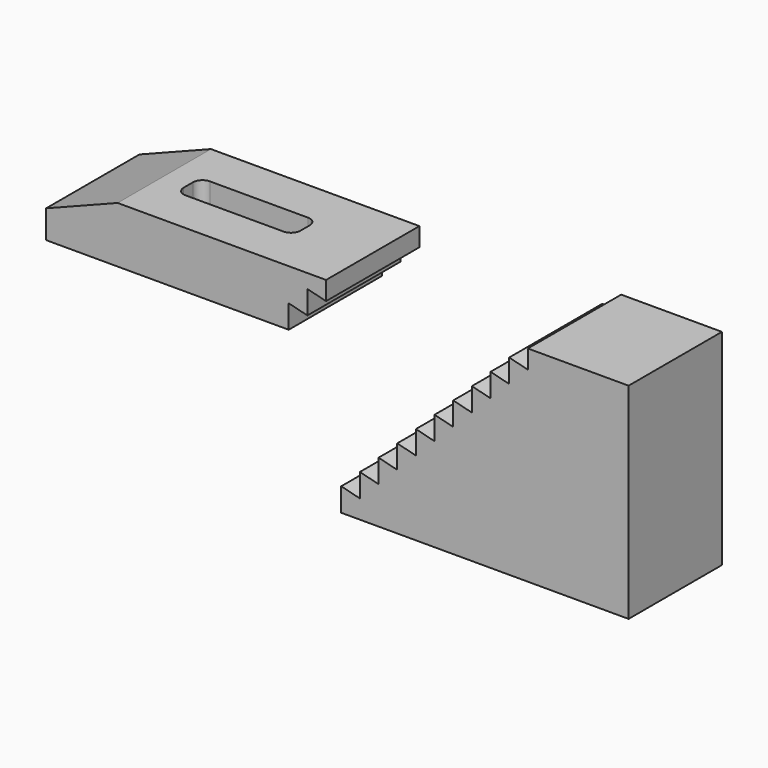
from build123d import *

# Parameters (mm, degrees)
F1_DEPTH = 25
F3_DEPTH = 25


with BuildPart() as f1:
    # F0 (on Front) → F1 (new body)
    with BuildSketch(Plane.XZ):
        Polygon((8, 20.585996), (-36.669362, 20.585996), (-52, 14.585996), (-52, 8.585996), (0, 8.585996), (0, 13.585996), (4, 12.585996), (4, 17.585996), (8, 16.585996), align=None)
        Polygon((47.245942, 18.719212), (47.245942, 13.719212), (43.245942, 14.719212), (43.245942, 9.719212), (39.245942, 10.719212), (39.245942, 5.719212), (35.245942, 6.719212), (35.245942, 1.719212), (31.245942, 2.719212), (31.245942, -2.280788), (27.245942, -1.280788), (27.245942, -6.280788), (23.245942, -5.280788), (23.245942, -10.280788), (19.245942, -9.280788), (19.245942, -14.280788), (15.245942, -13.280788), (15.245942, -18.280788), (11.245942, -17.280788), (11.245942, -22.280788), (72.83058, -22.280788), (72.83058, 21.719212), (51.245942, 21.719212), (51.245942, 17.719212), align=None)
    extrude(amount=F1_DEPTH)

    # F2 (on face) → F3 (cut)
    with BuildSketch(Plane.XY.offset(20.585996)):
        with BuildLine():
            ThreePointArc((-31.5, -13.75), (-30.914214, -15.164214), (-29.5, -15.75))
            Line((-29.5, -15.75), (-8.5, -15.75))
            ThreePointArc((-8.5, -15.75), (-7.085786, -15.164214), (-6.5, -13.75))
            Line((-6.5, -13.75), (-6.5, -11.25))
            ThreePointArc((-6.5, -11.25), (-7.085786, -9.835786), (-8.5, -9.25))
            Line((-8.5, -9.25), (-29.5, -9.25))
            ThreePointArc((-29.5, -9.25), (-30.914214, -9.835786), (-31.5, -11.25))
            Line((-31.5, -11.25), (-31.5, -13.75))
        make_face()
    extrude(amount=-F3_DEPTH, mode=Mode.SUBTRACT)


solid = f1.part
